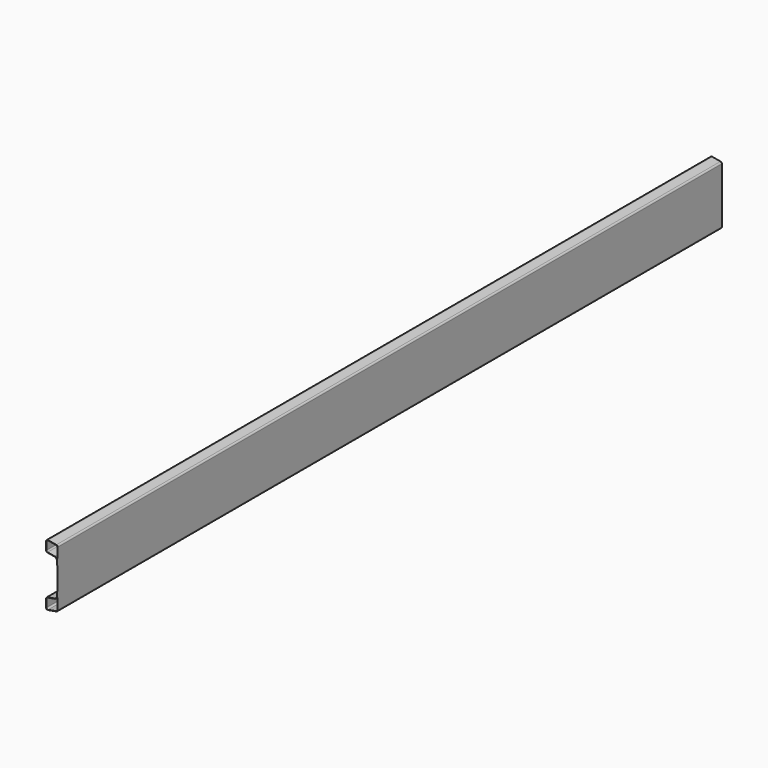
from build123d import *

# Parameters (mm, degrees)
F1_DEPTH = 750
F2_R     = 2.5
F3_R     = 3
F4_R     = 5
F5_R     = 5.5


with BuildPart() as f1:
    # F0 (on Front) → F1 (new body, symmetric)
    with BuildSketch(Plane.XZ):
        Polygon((-1, -20.571158), (-1.5, -20.571158), (-1.5, -32.527116), (-21, -35.965492), (-21, -56.274024), (0, -52.571158), (0, 52.571158), (-21, 56.274024), (-21, 35.965492), (-1.5, 32.527116), (-1.5, 20.571158), (-1, 20.571158), (-1, 32.946666), (-20.5, 36.385042), (-20.5, 55.678148), (-0.5, 52.151608), (-0.5, -52.151608), (-20.5, -55.678148), (-20.5, -36.385042), (-1, -32.946666), align=None)
    extrude(amount=F1_DEPTH, both=True)

    # F2
    f2_edges = [f1.edges().sort_by_distance(p)[0] for p in [
        (-0.5, 0, 52.151608),
        (-20.5, 0, 36.385042),
        (-20.5, 0, 55.678148),
        (-20.5, 0, -36.385042),
        (-0.5, 0, -52.151608),
        (-20.5, 0, -55.678148),
    ]]
    fillet(f2_edges, radius=F2_R)

    # F3
    f3_edges = [f1.edges().sort_by_distance(p)[0] for p in [
        (0, 0, 52.571158),
        (-21, 0, 35.965492),
        (-21, 0, 56.274024),
        (-21, 0, -35.965492),
        (-21, 0, -56.274024),
        (0, 0, -52.571158),
    ]]
    fillet(f3_edges, radius=F3_R)

    # F4
    f4_edges = [f1.edges().sort_by_distance(p)[0] for p in [
        (-1.5, 0, 32.527116),
        (-1.5, 0, -32.527116),
    ]]
    fillet(f4_edges, radius=F4_R)

    # F5
    f5_edges = [f1.edges().sort_by_distance(p)[0] for p in [
        (-1, 0, -32.946666),
        (-1, 0, 32.946666),
    ]]
    fillet(f5_edges, radius=F5_R)


solid = f1.part
